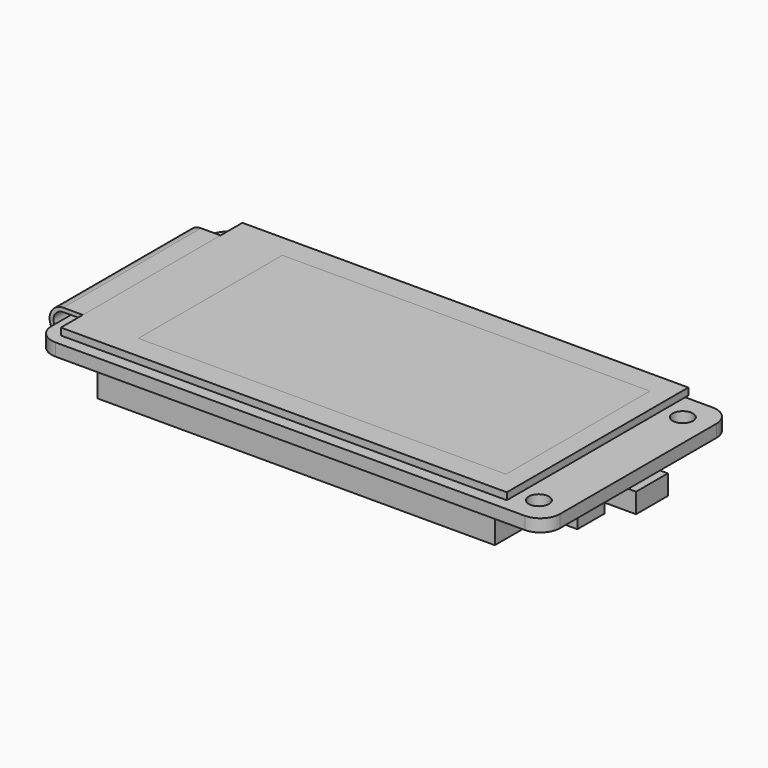
from build123d import *

# Parameters (mm, degrees)
F0_R           = 1.3
F1_DEPTH       = 1.6
F2_W           = 47
F2_H           = 23
F3_DEPTH       = 0.9
F2_W_2         = 57
F2_H_2         = 29
F4_DEPTH       = 0.9
F5_W           = 5
F5_H           = 3.8
F6_DEPTH       = 1.3
F5_W_2         = 1.7
F5_H_2         = 1
F7_DEPTH       = 2.2
F5_W_3         = 5.7
F5_H_3         = 5.08
F5_W_4         = 1
F8_DEPTH       = 2.54
F5_W_5         = 7.3
F5_H_4         = 4.3
F9_DEPTH       = 3
F5_W_6         = 50.8
F10_DEPTH      = 3.6
F12_DEPTH      = 10
F12_DEPTH_BACK = 12


with BuildPart() as f1:
    # F0 (on Top) → F1 (new body)
    with BuildSketch(Plane.XY):
        with BuildLine():
            Line((30, 15), (-30, 15))
            ThreePointArc((-30, 15), (-31.767766953, 14.267766953), (-32.5, 12.5))
            Line((-32.5, 12.5), (-32.5, -12.5))
            ThreePointArc((-32.5, -12.5), (-31.767766953, -14.267766953), (-30, -15))
            Line((-30, -15), (30, -15))
            ThreePointArc((30, -15), (31.767766953, -14.267766953), (32.5, -12.5))
            Line((32.5, -12.5), (32.5, 12.5))
            ThreePointArc((32.5, 12.5), (31.767766953, 14.267766953), (30, 15))
        make_face()
        with Locations((29, -11.5)):
            Circle(F0_R, mode=Mode.SUBTRACT)
        with Locations((29, 11.5)):
            Circle(F0_R, mode=Mode.SUBTRACT)
    extrude(amount=-F1_DEPTH)


with BuildPart() as f3:
    # F2 (on Top) → F3 (new body)
    with BuildSketch(Plane.XY):
        with Locations((0.5, 1)):
            Rectangle(F2_W, F2_H)
    extrude(amount=F3_DEPTH)


with BuildPart() as f4:
    # F2 (on Top) → F4 (new body)
    with BuildSketch(Plane.XY):
        with Locations((-2, 1)):
            Rectangle(F2_W_2, F2_H_2)
        with Locations((0.5, 1)):
            Rectangle(F2_W, F2_H, mode=Mode.SUBTRACT)
    extrude(amount=F4_DEPTH)


with BuildPart() as f6:
    # F5 (on face) → F6 (new body)
    with BuildSketch(Plane(origin=(0, 0, -1.6), x_dir=(1, 0, 0), z_dir=(0, 0, -1))):
        with Locations((16, 2.5)):
            Rectangle(F5_W, F5_H)
    extrude(amount=F6_DEPTH)


with BuildPart() as f6b:
    # F5 (on face) → F6, piece 2 (new body)
    with BuildSketch(Plane(origin=(0, 0, -1.6), x_dir=(1, 0, 0), z_dir=(0, 0, -1))):
        Polygon((23.35, -15), (24.25, -15), (24.25, -12.5), (20.75, -12.5), (20.75, -15), (21.65, -15), align=None)
        with Locations((22.5, -15.5)):
            Rectangle(F5_W_2, F5_H_2)
    extrude(amount=F6_DEPTH)


with BuildPart() as f6c:
    # F5 (on face) → F6, piece 3 (new body)
    with BuildSketch(Plane(origin=(0, 0, -1.6), x_dir=(1, 0, 0), z_dir=(0, 0, -1))):
        Polygon((14.35, -15), (15.25, -15), (15.25, -12.5), (11.75, -12.5), (11.75, -15), (12.65, -15), align=None)
        with Locations((13.5, -15.5)):
            Rectangle(F5_W_2, F5_H_2)
    extrude(amount=F6_DEPTH)


with BuildPart() as f6d:
    # F5 (on face) → F6, piece 4 (new body)
    with BuildSketch(Plane(origin=(0, 0, -1.6), x_dir=(1, 0, 0), z_dir=(0, 0, -1))):
        Polygon((5.35, -15), (6.25, -15), (6.25, -12.5), (2.75, -12.5), (2.75, -15), (3.65, -15), align=None)
        with Locations((4.5, -15.5)):
            Rectangle(F5_W_2, F5_H_2)
    extrude(amount=F6_DEPTH)


with BuildPart() as f6e:
    # F5 (on face) → F6, piece 5 (new body)
    with BuildSketch(Plane(origin=(0, 0, -1.6), x_dir=(1, 0, 0), z_dir=(0, 0, -1))):
        Polygon((-3.65, -15), (-2.75, -15), (-2.75, -12.5), (-6.25, -12.5), (-6.25, -15), (-5.35, -15), align=None)
        with Locations((-4.5, -15.5)):
            Rectangle(F5_W_2, F5_H_2)
    extrude(amount=F6_DEPTH)


with BuildPart() as f6f:
    # F5 (on face) → F6, piece 6 (new body)
    with BuildSketch(Plane(origin=(0, 0, -1.6), x_dir=(1, 0, 0), z_dir=(0, 0, -1))):
        Polygon((-15.25, -12.5), (-15.25, -15), (-14.35, -15), (-12.65, -15), (-11.75, -15), (-11.75, -12.5), align=None)
        with Locations((-13.5, -15.5)):
            Rectangle(F5_W_2, F5_H_2)
    extrude(amount=F6_DEPTH)


with BuildPart() as f7:
    # F5 (on face) → F7 (new body)
    with BuildSketch(Plane(origin=(0, 0, -1.6), x_dir=(1, 0, 0), z_dir=(0, 0, -1))):
        with BuildLine():
            Line((-27.2, 10.5), (-32.5, 10.5))
            Line((-32.5, 10.5), (-32.5, -12.5))
            ThreePointArc((-32.5, -12.5), (-32.4979959865, -12.6000802248), (-32.4919871589, -12.7))
            Line((-32.4919871589, -12.7), (-27.2, -12.7))
            Line((-27.2, -12.7), (-27.2, 10.5))
        make_face()
        with BuildLine():
            Line((-32.5, -12.5), (-32.5, 10.5))
            Line((-32.5, 10.5), (-33, 10.5))
            Line((-33, 10.5), (-33, -12.7))
            Line((-33, -12.7), (-32.4919871589, -12.7))
            ThreePointArc((-32.4919871589, -12.7), (-32.4979959865, -12.6000802248), (-32.5, -12.5))
        make_face()
    extrude(amount=F7_DEPTH)


with BuildPart() as f8:
    # F5 (on face) → F8 (new body)
    with BuildSketch(Plane(origin=(0, 0, -1.6), x_dir=(1, 0, 0), z_dir=(0, 0, -1))):
        with Locations((29.65, -0.94)):
            Rectangle(F5_W_3, F5_H_3)
        Polygon((26.8, -6.02), (26.8, -3.48), (26.8, 1.6), (24.26, 1.6), (24.26, -6.02), align=None)
        with Locations((33, -0.94)):
            Rectangle(F5_W_4, F5_H_3)
    extrude(amount=F8_DEPTH)


with BuildPart() as f9:
    # F5 (on face) → F9 (new body)
    with BuildSketch(Plane(origin=(0, 0, -1.6), x_dir=(1, 0, 0), z_dir=(0, 0, -1))):
        with Locations((26.75, 4.95)):
            Rectangle(F5_W_5, F5_H_4)
    extrude(amount=F9_DEPTH)


with BuildPart() as f10:
    # F5 (on face) → F10 (new body)
    with BuildSketch(Plane(origin=(0, 0, -1.6), x_dir=(1, 0, 0), z_dir=(0, 0, -1))):
        with Locations((0, 11.5)):
            Rectangle(F5_W_6, F5_H_3)
    extrude(amount=F10_DEPTH)


with BuildPart() as f12:
    # F11 (on Front) → F12 (new body, two sides)
    with BuildSketch(Plane.XZ) as f12_sk:
        with BuildLine():
            Line((-30.5, 0.4), (-30.5, 0.9))
            Line((-30.5, 0.9), (-33, 0.9))
            ThreePointArc((-33, 0.9), (-34.75, -0.85), (-33, -2.6))
            Line((-33, -2.6), (-33, -2.1))
            ThreePointArc((-33, -2.1), (-34.25, -0.85), (-33, 0.4))
            Line((-33, 0.4), (-30.5, 0.4))
        make_face()
    extrude(amount=F12_DEPTH)
    extrude(f12_sk.sketch, amount=-F12_DEPTH_BACK)


solid = Compound([f1.part, f3.part, f4.part, f6.part, f6b.part, f6c.part, f6d.part, f6e.part, f6f.part, f7.part, f8.part, f9.part, f10.part, f12.part])
